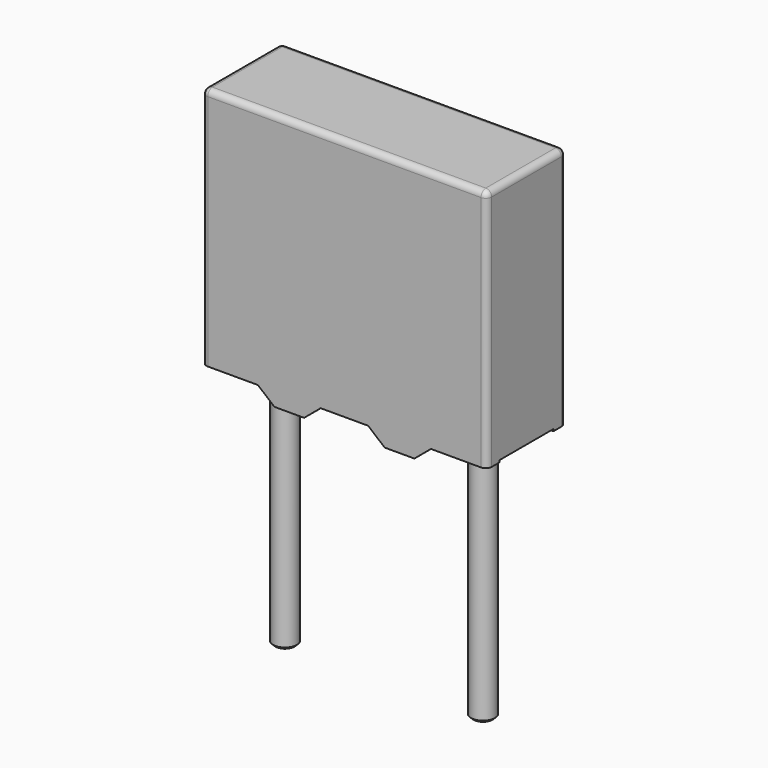
from build123d import *

# Parameters (mm, degrees)
F0_W       = 7.2
F0_H       = 2.5
F1_DEPTH   = 6.5
F2_R       = 0.3
F3_DEPTH   = 6
F5_DEPTH   = 7.3
F7_DEPTH   = 6.5
F8_DEPTH   = 0.8
F9_DEPTH   = 0.8
F10_R      = 0.15
F11_SIZE   = 0.06
F11_2_SIZE = 0.06


with BuildPart() as f1:
    # F0 (on Top) → F1 (new body)
    with BuildSketch(Plane.XY):
        Rectangle(F0_W, F0_H)
    extrude(amount=F1_DEPTH)

    # F4 (on face) → F5 (cut)
    with BuildSketch(Plane(origin=(-3.6, 0, 0), x_dir=(0, -1, 0), z_dir=(-1, 0, 0))):
        Polygon((-0.85, 0.4), (-0.85, 0), (0.85, 0), (0.85, 0.4), (0, 0.4), align=None)
    extrude(amount=-F5_DEPTH, mode=Mode.SUBTRACT)

    # F6 (on face) → F7 (cut)
    with BuildSketch(Plane(origin=(0, 1.25, 0), x_dir=(-1, 0, 0), z_dir=(0, 1, 0))):
        Polygon((-2.1842275148, 0.35), (-3.6, 0.35), (-3.6, 0), (-1.7671137574, 0), align=None)
        Polygon((-0.6, 0.35), (-1.0171137574, 0), (1.0171137574, 0), (0.6, 0.35), (0, 0.35), align=None)
        Polygon((3.6, 0), (3.6, 0.35), (2.1842275148, 0.35), (1.7671137574, 0), (1.8580688629, 0), align=None)
    extrude(amount=-F7_DEPTH, mode=Mode.SUBTRACT)

    # F10
    f10_edges = [f1.edges().sort_by_distance(p)[0] for p in [
        (0, 1.25, 6.5),
        (3.6, 1.25, 3.425),
        (3.6, 0, 6.5),
        (0, -1.25, 6.5),
        (-3.6, 0, 6.5),
        (-3.6, 1.25, 3.425),
        (3.6, -1.25, 3.425),
        (-3.6, -1.25, 3.425),
    ]]
    fillet(f10_edges, radius=F10_R)


with BuildPart() as f3:
    # F2 (on face) → F3 (new body)
    with BuildSketch(Plane(origin=(0, 0, 0), x_dir=(1, 0, 0), z_dir=(0, 0, -1))):
        with Locations((-2.5, 0)):
            Circle(F2_R)
    extrude(amount=F3_DEPTH)

    # F8 (add): a face of the model
    f8_faces = [f3.faces().sort_by_distance(p)[0] for p in [
        (-2.5, 0, 0),
    ]]
    extrude(f8_faces, amount=F8_DEPTH)

    # F11#2
    f11_2_edges = [f3.edges().sort_by_distance(p)[0] for p in [
        (-2.8, 0, -6),
    ]]
    chamfer(f11_2_edges, length=F11_2_SIZE)


with BuildPart() as f3b:
    # F2 (on face) → F3, piece 2 (new body)
    with BuildSketch(Plane(origin=(0, 0, 0), x_dir=(1, 0, 0), z_dir=(0, 0, -1))):
        with Locations((2.5, 0)):
            Circle(F2_R)
    extrude(amount=F3_DEPTH)

    # F9 (add): a face of the model
    f9_faces = [f3b.faces().sort_by_distance(p)[0] for p in [
        (2.5, 0, 0),
    ]]
    extrude(f9_faces, amount=F9_DEPTH)

    # F11
    f11_edges = [f3b.edges().sort_by_distance(p)[0] for p in [
        (2.2, 0, -6),
    ]]
    chamfer(f11_edges, length=F11_SIZE)


solid = Compound([f1.part, f3.part, f3b.part])
